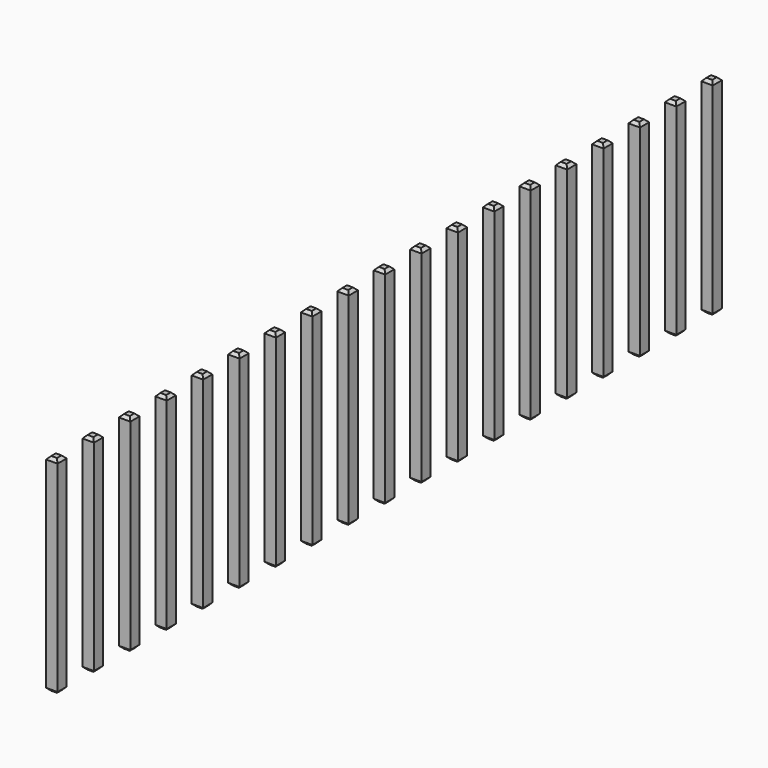
from build123d import *

# Parameters (mm, degrees)
SKETCH210_W       = 0.64
SKETCH210_H       = 11.54
PAD065_DEPTH      = 0.32
PAD065_DEPTH_BACK = 0.32
CHAMFER015_SIZE   = 0.16
ARRAY003_Y_COUNT  = 19
ARRAY003_Y_PITCH  = 2.54


with BuildPart() as part:
    # Sketch210 → Pad065 (new body, two sides)
    with BuildSketch(Plane.XZ) as pad065_sk:
        with Locations((0, 2.77)):
            Rectangle(SKETCH210_W, SKETCH210_H)
    extrude(amount=PAD065_DEPTH)
    extrude(pad065_sk.sketch, amount=-PAD065_DEPTH_BACK)

    # Chamfer015
    chamfer015_edges = [part.edges().sort_by_distance(p)[0] for p in [
        (0.32, 0, 8.54),
        (-0.32, 0, 8.54),
        (0, 0.32, 8.54),
        (0, -0.32, 8.54),
        (-0.32, 0, -3),
        (0.32, 0, -3),
        (0, 0.32, -3),
        (0, -0.32, -3),
    ]]
    chamfer(chamfer015_edges, length=CHAMFER015_SIZE)

    # Array003 Y: part ×19


with BuildPart() as part_1:
    add(part.part)
    with Locations(*[(0, i * ARRAY003_Y_PITCH, 0) for i in range(1, ARRAY003_Y_COUNT)]):
        add(part.part)


solid = part_1.part
